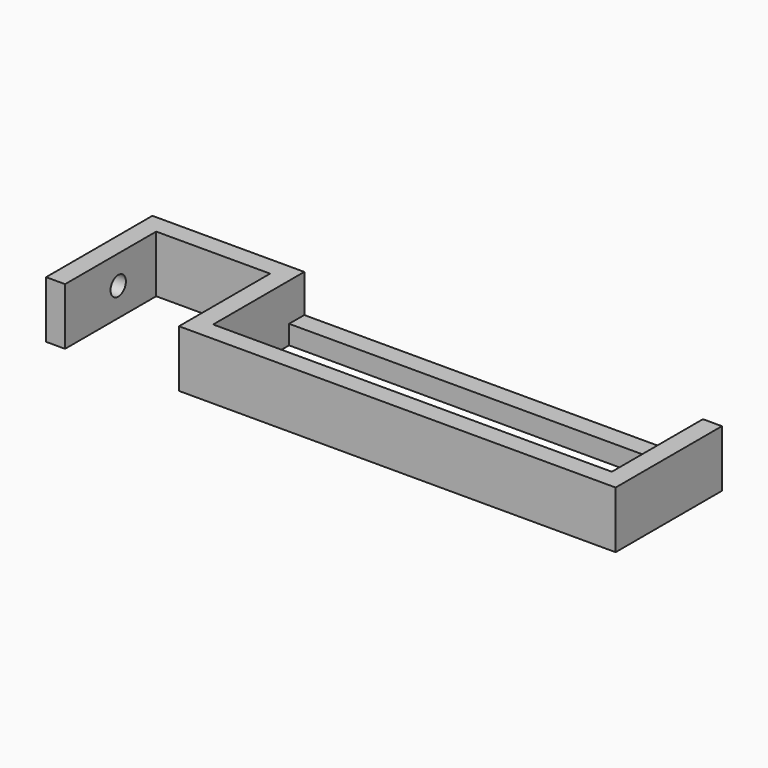
from build123d import *

# Parameters (mm, degrees)
F0_W     = 105
F0_H     = 25
F1_DEPTH = 15
F2_R     = 2.525
F3_DEPTH = 25
F4_W     = 105
F4_H     = 5
F5_DEPTH = 25


with BuildPart() as f1:
    # F0 (on Top) → F1 (new body)
    with BuildSketch(Plane.XY):
        Polygon((-61.220747, -19.834538), (-61.220747, -14.834538), (-96.220747, -14.834538), (-96.220747, -49.834538), (-91.220747, -49.834538), (-91.220747, -19.834538), align=None)
        Polygon((53.779253, -14.834538), (-61.220747, -14.834538), (-61.220747, -19.834538), (-61.220747, -49.834538), (53.779253, -49.834538), align=None)
        with Locations((-3.720747, -32.334538)):
            Rectangle(F0_W, F0_H, mode=Mode.SUBTRACT)
    extrude(amount=F1_DEPTH)

    # F2 (on face) → F3 (cut)
    with BuildSketch(Plane(origin=(-96.220747, 0, 0), x_dir=(0, -1, 0), z_dir=(-1, 0, 0))):
        with Locations((32.334538, 7.5)):
            Circle(F2_R)
    extrude(amount=-F3_DEPTH, mode=Mode.SUBTRACT)

    # F4 (on face) → F5 (cut)
    with BuildSketch(Plane.XZ.offset(19.834538)):
        with Locations((-3.720747, 12.5)):
            Rectangle(F4_W, F4_H)
        with Locations((-3.720747, 7.5)):
            Rectangle(F4_W, F4_H)
    extrude(amount=-F5_DEPTH, mode=Mode.SUBTRACT)


solid = f1.part
